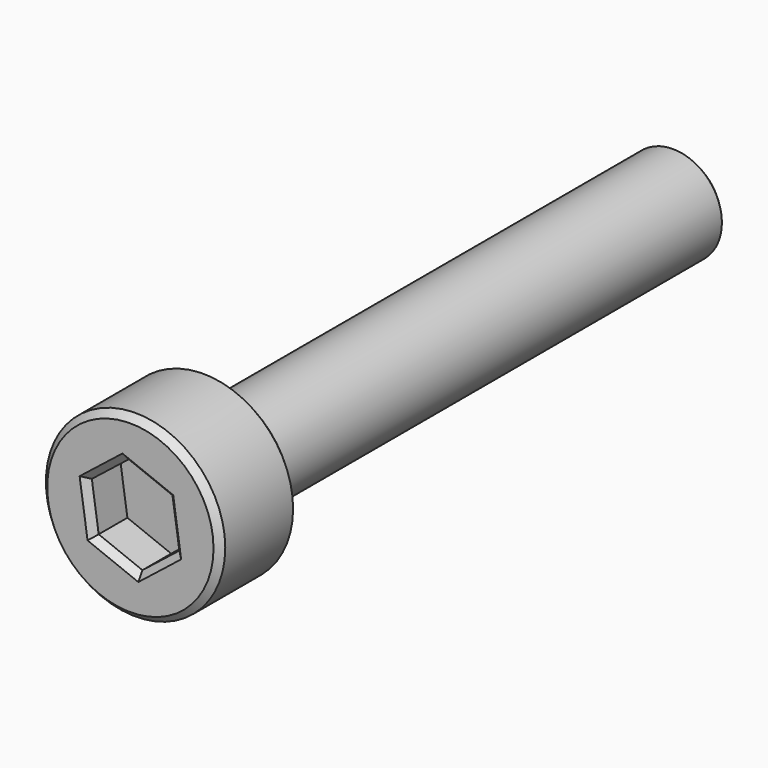
from build123d import *

# Parameters (mm, degrees)
F0_R     = 1.5
F1_DEPTH = 18
F2_R     = 2.75
F3_DEPTH = 3
F5_DEPTH = 1.3
F6_SIZE  = 0.2


with BuildPart() as f1:
    # F0 (on Front) → F1 (new body)
    with BuildSketch(Plane.XZ):
        Circle(F0_R)
    extrude(amount=F1_DEPTH)

    # F2 (on face) → F3 (join)
    with BuildSketch(Plane.XZ.offset(18)):
        Circle(F2_R)
    extrude(amount=F3_DEPTH)

    # F4 (on face) → F5 (cut)
    with BuildSketch(Plane.XZ.offset(21)):
        Polygon((0.2100819211, -1.428005224), (1.3417297613, -0.5320663314), (1.1316478402, 0.8959388926), (-0.2100819211, 1.428005224), (-1.3417297613, 0.5320663314), (-1.1316478402, -0.8959388926), align=None)
    extrude(amount=-F5_DEPTH, mode=Mode.SUBTRACT)

    # F6
    f6_edges = [f1.edges().sort_by_distance(p)[0] for p in [
        (-2.75, -21, 0),
        (-2.75, -18, 0),
        (-1.5, 0, 0),
        (-1.236689, -21, -0.181936),
        (-0.460783, -21, -1.161972),
        (0.775906, -21, -0.980036),
        (1.236689, -21, 0.181936),
        (0.460783, -21, 1.161972),
        (-0.775906, -21, 0.980036),
    ]]
    chamfer(f6_edges, length=F6_SIZE)


solid = f1.part
